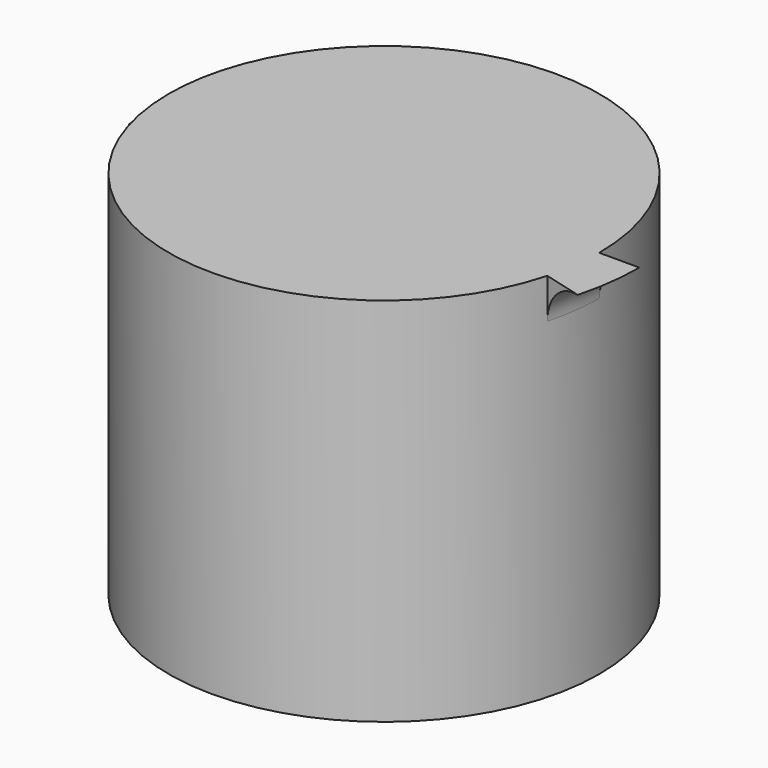
from build123d import *

# Parameters (mm, degrees)
F0_R     = 53.637742
F1_DEPTH = 92.44411
F3_ANGLE = 15
F4_ANGLE = 15


with BuildPart() as f1:
    # F0 (on Top) → F1 (new body)
    with BuildSketch(Plane.XY):
        Circle(F0_R)
        Circle(F0_R)
    extrude(amount=F1_DEPTH)

    # F2 (on Front) → F3 (revolve)
    with BuildSketch(Plane.XZ):
        with BuildLine():
            Line((63.637742, 92.44411), (53.637742, 92.44411))
            Line((53.637742, 92.44411), (53.637742, 82.44411))
            ThreePointArc((53.637742, 82.44411), (56.566675, 89.515178), (63.637742, 92.44411))
        make_face()
    revolve(axis=Axis((0, 0, 0), (0, 0, -1)), revolution_arc=F3_ANGLE)

    # F2 (on Front) → F4 (revolve)
    with BuildSketch(Plane.XZ):
        Polygon((-63.637742, 82.44411), (-53.637742, 72.44411), (-53.637742, 92.44411), align=None)
    revolve(axis=Axis((0, 0, 0), (0, 0, -1)), revolution_arc=F4_ANGLE)


solid = f1.part
